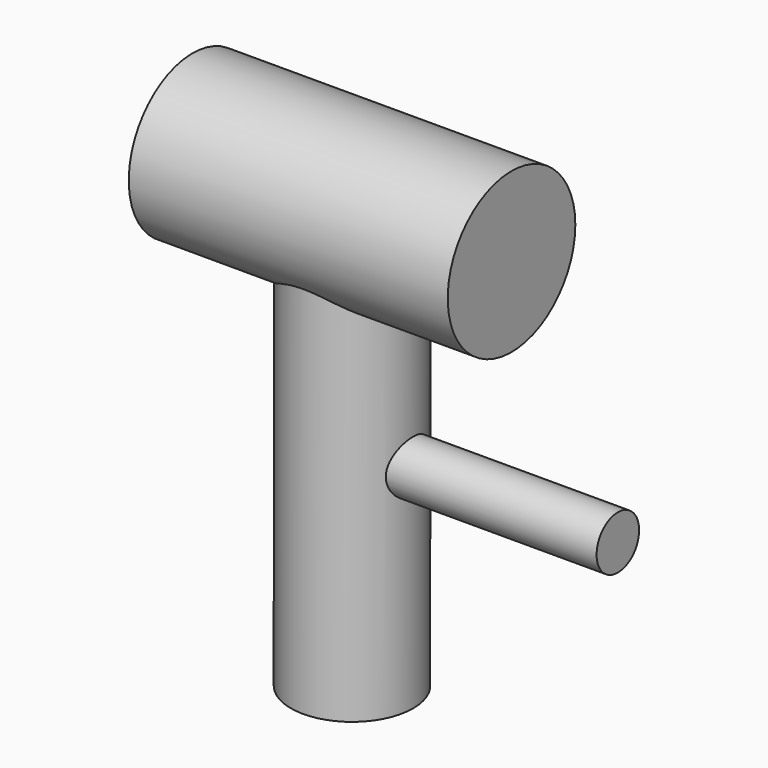
from build123d import *

# Parameters (mm, degrees)
F0_R     = 19.05
F1_DEPTH = 38.1
F2_R     = 14.605
F3_DEPTH = 101.6
F4_R     = 6.35
F5_DEPTH = 63.5


with BuildPart() as f1:
    # F0 (on Right) → F1 (new body, symmetric)
    with BuildSketch(Plane.YZ):
        Circle(F0_R)
    extrude(amount=F1_DEPTH, both=True)

    # F2 (on Top) → F3 (join)
    with BuildSketch(Plane.XY):
        Circle(F2_R)
    extrude(amount=-F3_DEPTH)

    # F4 (on Right) → F5 (join)
    with BuildSketch(Plane.YZ):
        with Locations((0, -50.8)):
            Circle(F4_R)
    extrude(amount=F5_DEPTH)


solid = f1.part
